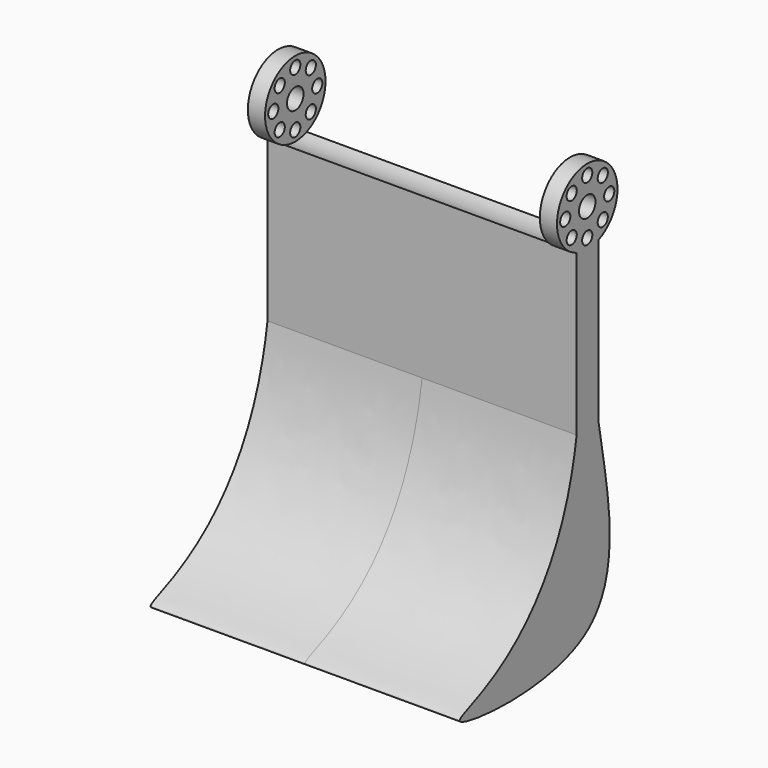
from build123d import *

# Parameters (mm, degrees)
F1_DEPTH = 45
F0_R     = 1.85
F0_R_2   = 3
F2_DEPTH = 5


with BuildPart() as f1:
    # F0 (on Right) → F1 (new body)
    with BuildSketch(Plane.YZ):
        with BuildLine():
            Line((4.1453032208, -57), (4.1453032208, -10.1890363238))
            ThreePointArc((4.1453032208, -10.1890363238), (0.1559839564, -10.9988939901), (-3.8546967792, -10.3024906086))
            Line((-3.8546967792, -10.3024906086), (-3.8546967792, -57))
            Line((-3.8546967792, -57), (4.1453032208, -57))
        make_face()
        with BuildLine():
            add(Edge.make_bspline(
                [(4.1453032208, -57), (6.9182630973, -74.2237708273), (19.6147280821, -121.5345421543), (-80.8931671267, -111.8766161894), (-11.4492813298, -108.7670899956), (-3.8546967792, -57)],
                knots=[0, 0, 0, 0, 0.3215996389, 0.6255769255, 1, 1, 1, 1], degree=3))
            Line((4.1453032208, -57), (-3.8546967792, -57))
        make_face()
    extrude(amount=F1_DEPTH)

    # F0 (on Right) → F2 (join)
    with BuildSketch(Plane.YZ):
        with BuildLine():
            ThreePointArc((-3.8546967792, -10.3024906086), (0.1559839564, -10.9988939901), (4.1453032208, -10.1890363238))
            ThreePointArc((4.1453032208, -10.1890363238), (9.1268377719, -6.1401003482), (11, 0))
            ThreePointArc((11, 0), (-6.2689048257, 9.0388512703), (-3.8546967792, -10.3024906086))
        make_face()
        with Locations((-5.6568542495, -5.6568542495)):
            Circle(F0_R, mode=Mode.SUBTRACT)
        with Locations((-8, 0)):
            Circle(F0_R, mode=Mode.SUBTRACT)
        with Locations((-5.6568542495, 5.6568542495)):
            Circle(F0_R, mode=Mode.SUBTRACT)
        with Locations((0, -8)):
            Circle(F0_R, mode=Mode.SUBTRACT)
        with Locations((5.6568542495, -5.6568542495)):
            Circle(F0_R, mode=Mode.SUBTRACT)
        Circle(F0_R_2, mode=Mode.SUBTRACT)
        with Locations((0, 8)):
            Circle(F0_R, mode=Mode.SUBTRACT)
        with Locations((5.6568542495, 5.6568542495)):
            Circle(F0_R, mode=Mode.SUBTRACT)
        with Locations((8, 0)):
            Circle(F0_R, mode=Mode.SUBTRACT)
    extrude(amount=F2_DEPTH)

    # F3: F1 across face


with BuildPart() as f1_1:
    add(f1.part)
    add(f1.part.mirror(Plane(origin=(45, -7.252748753, -80.0843389075), x_dir=(0, 1, 0), z_dir=(1, 0, 0))))


solid = f1_1.part
